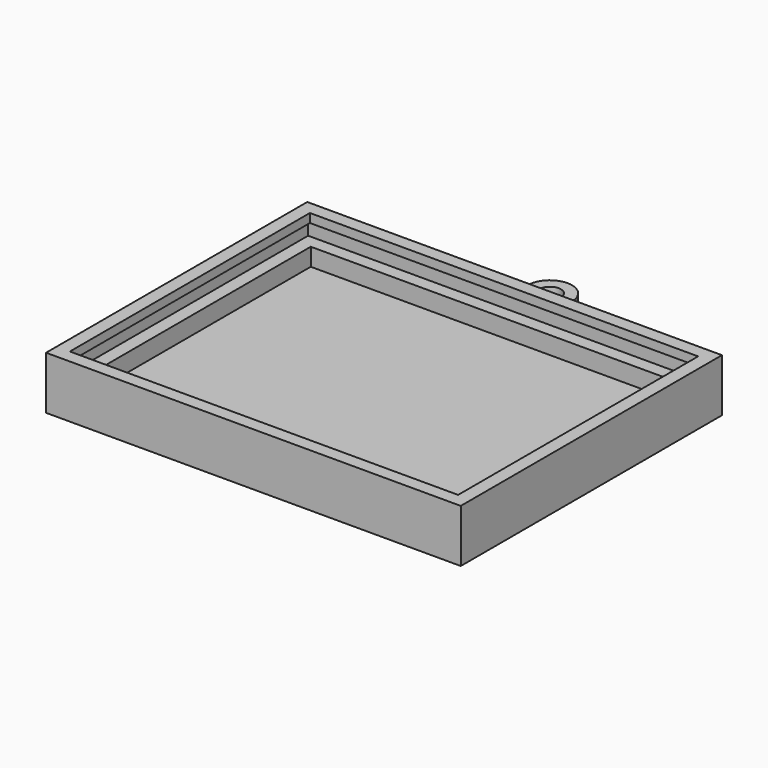
from build123d import *

# Parameters (mm, degrees)
F0_W     = 86
F0_H     = 66
F1_DEPTH = 2
F2_DEPTH = 10
F3_W     = 92
F3_H     = 72
F3_W_2   = 86
F3_H_2   = 66
F4_DEPTH = 4
F5_W     = 94
F5_H     = 74
F5_W_2   = 88
F5_H_2   = 2
F5_W_3   = 2
F5_H_3   = 68
F6_DEPTH = 2
F0_R     = 2.5
F7_DEPTH = 5


with BuildPart() as f1:
    # F0 (on Top) → F1 (new body)
    with BuildSketch(Plane.XY):
        Rectangle(F0_W, F0_H)
    extrude(amount=F1_DEPTH)

    # F0 (on Top) → F2 (join)
    with BuildSketch(Plane.XY):
        Polygon((47, -37), (47, 37), (5, 37), (-5, 37), (-47, 37), (-47, -37), align=None)
        Rectangle(F0_W, F0_H, mode=Mode.SUBTRACT)
    extrude(amount=F2_DEPTH)

    # F3 (on face) → F4 (cut)
    with BuildSketch(Plane.XY.offset(10)):
        Rectangle(F3_W, F3_H)
        Rectangle(F3_W_2, F3_H_2, mode=Mode.SUBTRACT)
    extrude(amount=-F4_DEPTH, mode=Mode.SUBTRACT)

    # F5 (on face) → F6 (join)
    with BuildSketch(Plane.XY.offset(10)):
        Rectangle(F5_W, F5_H)
        Polygon((-44, -36), (-46, -36), (-46, -34), (-46, 34), (-46, 36), (-44, 36), (44, 36), (46, 36), (46, 34), (46, -34), (46, -36), (44, -36), align=None, mode=Mode.SUBTRACT)
        with Locations((0, 35)):
            Rectangle(F5_W_2, F5_H_2)
        with Locations((0, -35)):
            Rectangle(F5_W_2, F5_H_2)
        with Locations((-45, 0)):
            Rectangle(F5_W_3, F5_H_3)
        with Locations((45, 0)):
            Rectangle(F5_W_3, F5_H_3)
        with Locations((-45, 35)):
            Rectangle(F5_W_3, F5_H_2)
        with Locations((45, 35)):
            Rectangle(F5_W_3, F5_H_2)
        with Locations((45, -35)):
            Rectangle(F5_W_3, F5_H_2)
        with Locations((-45, -35)):
            Rectangle(F5_W_3, F5_H_2)
    extrude(amount=F6_DEPTH)

    # F0 (on Top) → F7 (join)
    with BuildSketch(Plane.XY):
        with BuildLine():
            Line((-5, 37), (5, 37))
            Line((5, 37), (5, 47))
            ThreePointArc((5, 47), (0, 42), (-5, 47))
            Line((-5, 47), (-5, 37))
        make_face()
        with BuildLine():
            ThreePointArc((-5, 47), (0, 42), (5, 47))
            ThreePointArc((5, 47), (0, 52), (-5, 47))
        make_face()
        with Locations((0, 47)):
            Circle(F0_R, mode=Mode.SUBTRACT)
    extrude(amount=F7_DEPTH)


solid = f1.part
